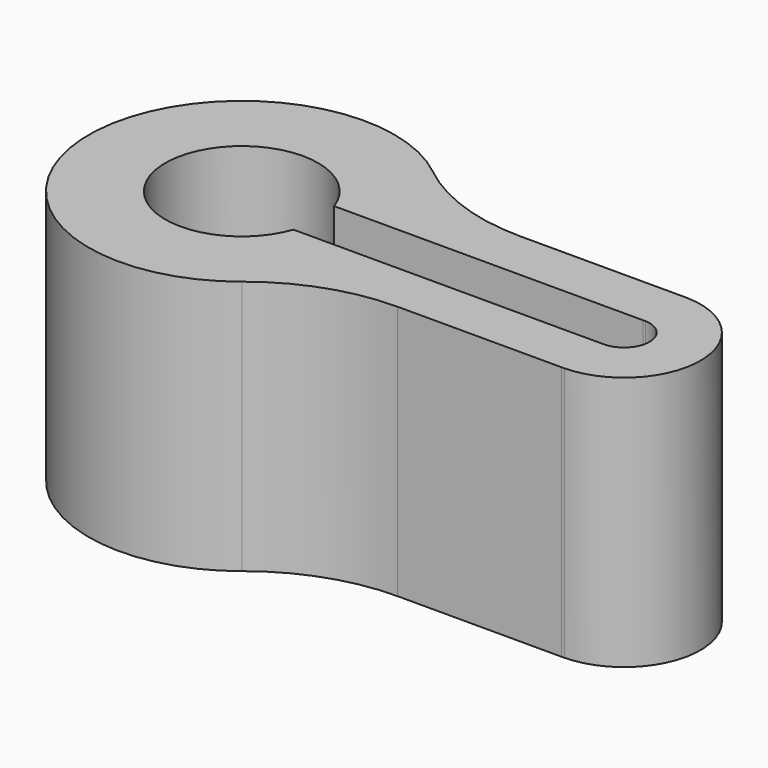
from build123d import *

# Parameters (mm, degrees)
F1_DEPTH = 50


with BuildPart() as f1:
    # F0 (on Top) → F1 (new body)
    with BuildSketch(Plane.XY):
        with BuildLine():
            ThreePointArc((42.611958, 14.992651), (29.988855, 17.150535), (18.799393, 23.379111))
            ThreePointArc((18.799393, 23.379111), (-30, 0.001557), (18.796966, -23.381062))
            ThreePointArc((18.796966, -23.381062), (29.985213, -17.154303), (42.606456, -14.997074))
            Line((42.606456, -14.997074), (74.703757, -14.997074))
            Line((74.703757, -14.997074), (75.296243, -14.997074))
            ThreePointArc((75.296243, -14.997074), (89.99975, -0.086652), (75.469491, 14.992651))
            Line((75.469491, 14.992651), (74.530509, 14.992651))
            Line((74.530509, 14.992651), (42.611958, 14.992651))
        make_face()
        with BuildLine():
            ThreePointArc((14.142937, -4.997732), (-15, 0.001995), (14.144266, 4.993969))
            Line((14.144266, 4.993969), (74.754499, 4.993969))
            ThreePointArc((74.754499, 4.993969), (75, 5), (75.245501, 4.993969))
            ThreePointArc((75.245501, 4.993969), (79.996076, -0.198053), (74.849412, -4.997732))
            Line((74.849412, -4.997732), (14.142937, -4.997732))
        make_face(mode=Mode.SUBTRACT)
        with BuildLine():
            ThreePointArc((75.469491, 14.992651), (75, 15), (74.530509, 14.992651))
            Line((74.530509, 14.992651), (75.469491, 14.992651))
        make_face()
        with BuildLine():
            Line((75.296243, -14.997074), (74.703757, -14.997074))
            ThreePointArc((74.703757, -14.997074), (75, -15), (75.296243, -14.997074))
        make_face()
    extrude(amount=F1_DEPTH)


solid = f1.part
